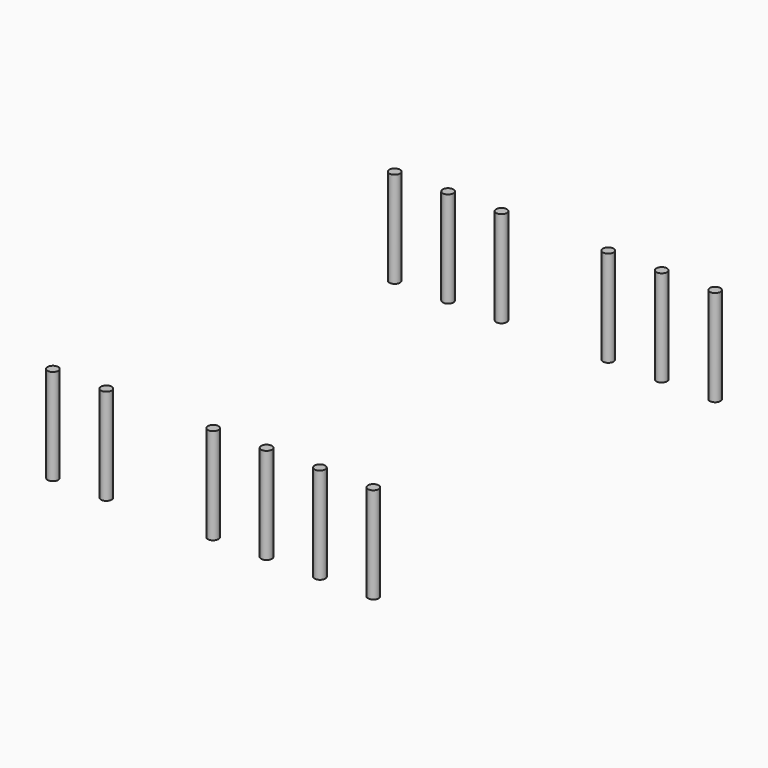
from build123d import *

# Parameters (mm, degrees)
F0_R          = 0.5
F1_DEPTH      = 5
F1_DEPTH_BACK = 4


with BuildPart() as f1:
    # F0 (on Top) → F1 (new body, two sides)
    with BuildSketch(Plane.XY) as f1_sk:
        with Locations((-15, -20)):
            Circle(F0_R)
        with Locations((-10, -20)):
            Circle(F0_R)
        with Locations((0, -20)):
            Circle(F0_R)
        with Locations((5, -20)):
            Circle(F0_R)
        with Locations((10, -20)):
            Circle(F0_R)
        with Locations((15, -20)):
            Circle(F0_R)
        with Locations((15, 20)):
            Circle(F0_R)
        with Locations((5, 20)):
            Circle(F0_R)
        with Locations((10, 20)):
            Circle(F0_R)
        with Locations((-5, 20)):
            Circle(F0_R)
        with Locations((-15, 20)):
            Circle(F0_R)
        with Locations((-10, 20)):
            Circle(F0_R)
    extrude(amount=F1_DEPTH)
    extrude(f1_sk.sketch, amount=-F1_DEPTH_BACK)


solid = f1.part
